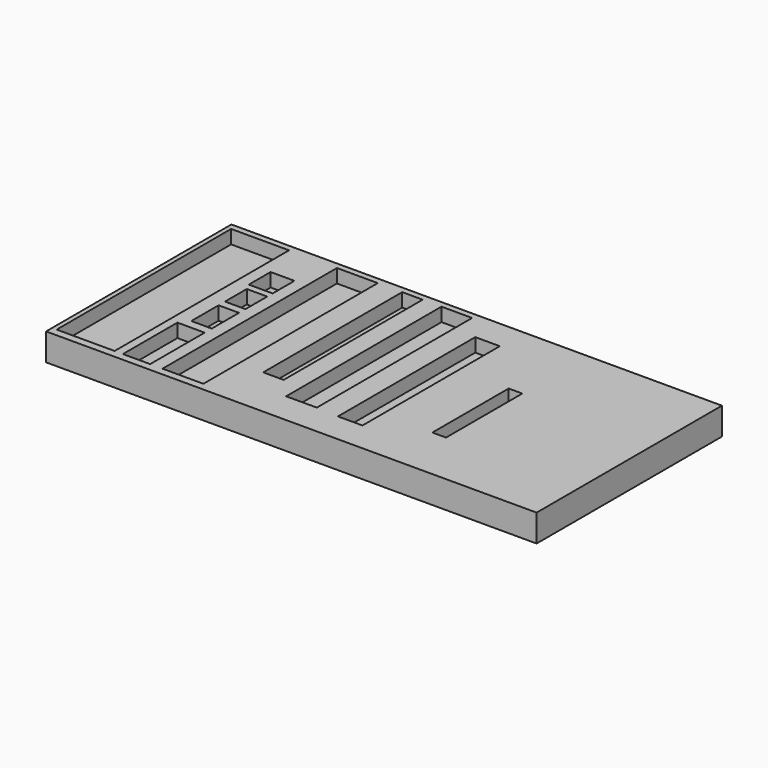
from build123d import *

# Parameters (mm, degrees)
F0_W     = 457.2
F0_H     = 215.9
F0_W_2   = 25.4
F0_H_2   = 63.5
F0_W_3   = 19.05
F0_H_3   = 31.75
F0_W_4   = 12.7
F0_H_4   = 88.9
F0_W_5   = 53.975
F0_H_5   = 203.2
F0_H_6   = 25.4
F0_W_6   = 38.1
F0_W_7   = 28.575
F0_H_7   = 180.975
F0_H_8   = 161.925
F0_W_8   = 22.225
F0_W_9   = 22.86
F0_H_9   = 160.02
F1_DEPTH = 12.7
F2_W     = 457.2
F2_H     = 215.9
F3_DEPTH = 12.7


with BuildPart() as f1:
    # F0 (on Top) → F1 (new body)
    with BuildSketch(Plane.XY):
        with Locations((45.826613, -1.118122)):
            Rectangle(F0_W, F0_H)
        with Locations((-104.114569, -70.262038)):
            Rectangle(F0_W_2, F0_H_2, mode=Mode.SUBTRACT)
        with Locations((-100.939569, -14.362427)):
            Rectangle(F0_W_3, F0_H_3, mode=Mode.SUBTRACT)
        with Locations((142.704006, -13.470057)):
            Rectangle(F0_W_4, F0_H_4, mode=Mode.SUBTRACT)
        with Locations((-151.536249, -0.412038)):
            Rectangle(F0_W_5, F0_H_5, mode=Mode.SUBTRACT)
        with Locations((-100.939569, 21.679631)):
            Rectangle(F0_W_3, F0_H_6, mode=Mode.SUBTRACT)
        with Locations((-60.8544, -0.412038)):
            Rectangle(F0_W_6, F0_H_5, mode=Mode.SUBTRACT)
        with Locations((31.849021, 10.700462)):
            Rectangle(F0_W_7, F0_H_7, mode=Mode.SUBTRACT)
        with Locations((-9.525, 20.225462)):
            Rectangle(F0_W_3, F0_H_8, mode=Mode.SUBTRACT)
        with Locations((-102.527069, 53.399307)):
            Rectangle(F0_W_8, F0_H_6, mode=Mode.SUBTRACT)
        with Locations((78.221696, -0.978914)):
            Rectangle(F0_W_9, F0_H_9, mode=Mode.SUBTRACT)
    extrude(amount=F1_DEPTH)

    # F2 (on face) → F3 (join)
    with BuildSketch(Plane(origin=(0, 0, 0), x_dir=(1, 0, 0), z_dir=(0, 0, -1))):
        with Locations((45.826613, 1.118122)):
            Rectangle(F2_W, F2_H)
    extrude(amount=F3_DEPTH)


solid = f1.part
